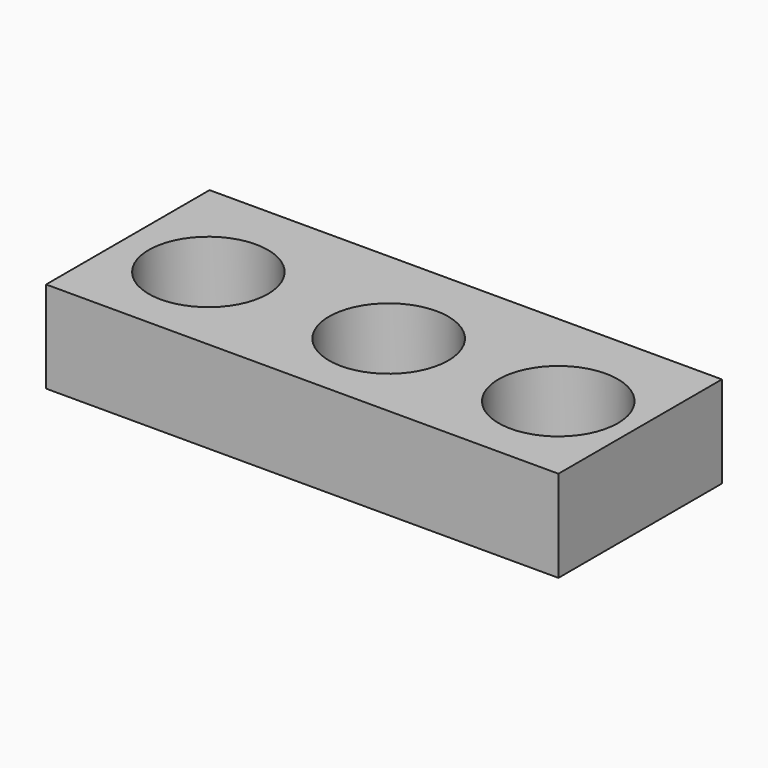
from build123d import *

# Parameters (mm, degrees)
F0_W     = 283.817534
F0_H     = 113.195715
F0_R     = 33.02
F1_DEPTH = 50.8


with BuildPart() as f1:
    # F0 (on Top) → F1 (new body)
    with BuildSketch(Plane.XY):
        with Locations((-11.604731, -14.705405)):
            Rectangle(F0_W, F0_H)
        with Locations((-106.02652, -18.294538)):
            Circle(F0_R, mode=Mode.SUBTRACT)
        with Locations((-6.156661, -18.294538)):
            Circle(F0_R, mode=Mode.SUBTRACT)
        with Locations((87.792493, -18.294538)):
            Circle(F0_R, mode=Mode.SUBTRACT)
    extrude(amount=-F1_DEPTH)


solid = f1.part
